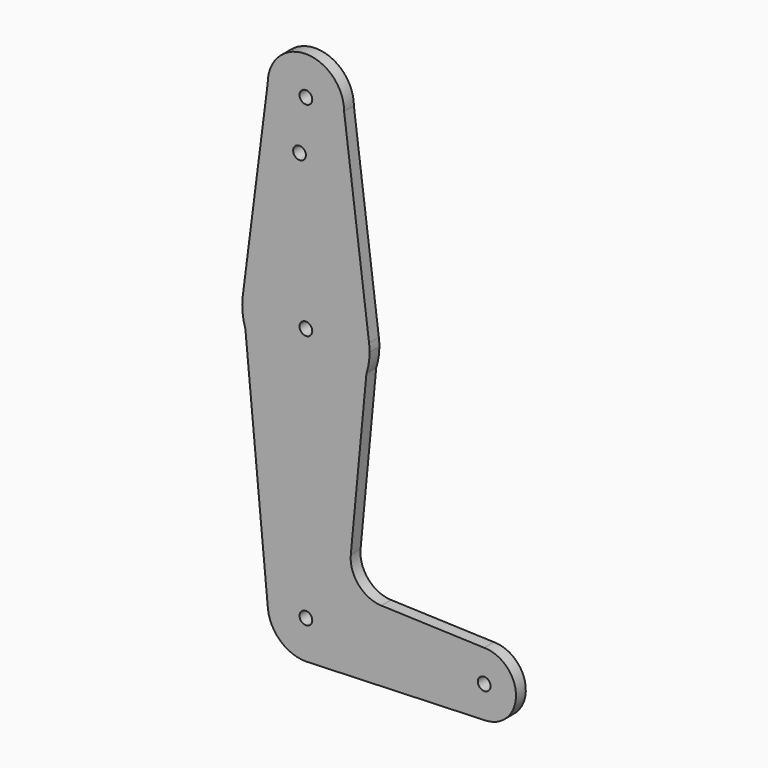
from build123d import *

# Parameters (mm, degrees)
F0_R     = 1.5875
F1_DEPTH = 3.048


with BuildPart() as f1:
    # F0 (on Front) → F1 (new body)
    with BuildSketch(Plane.XZ):
        with BuildLine():
            ThreePointArc((44.7324052746, -7.9324746146), (50.1616327839, -5.5119104847), (52.3875, 0))
            ThreePointArc((52.3875, 0), (50.0626600757, 5.6126600757), (44.45, 7.9375))
            ThreePointArc((44.45, 7.9375), (36.5137564458, -0.1412249921), (44.7324052746, -7.9324746146))
        make_face()
        with Locations((44.45, 0)):
            Circle(F0_R, mode=Mode.SUBTRACT)
        with BuildLine():
            ThreePointArc((44.7324052746, -7.9324746146), (36.5137564458, -0.1412249921), (44.45, 7.9375))
            Line((44.45, 7.9375), (18.8228170321, 8.8527565346))
            ThreePointArc((18.8228170321, 8.8527565346), (13.130598856, 11.5544736108), (11.1919966494, 17.549675393))
            Line((11.1919966494, 17.549675393), (15.0877196672, 58.5627598555))
            ThreePointArc((15.0877196672, 58.5627598555), (-0.0101583242, 47.6250032501), (-15.0940259351, 58.5820729906))
            Line((-15.0940259351, 58.5820729906), (-9.4828929283, -0.8946321652))
            ThreePointArc((-9.4828929283, -0.8946321652), (-0.4478112651, 9.5144674087), (9.525, 0))
            ThreePointArc((9.525, 0), (6.9705567315, -6.4912990883), (0.6773435479, -9.500885786))
            Line((0.6773435479, -9.500885786), (44.7324052746, -7.9324746146))
        make_face()
        with BuildLine():
            Line((0, -9.525), (0.6773435479, -9.500885786))
            ThreePointArc((0.6773435479, -9.500885786), (6.9705567315, -6.4912990883), (9.525, 0))
            ThreePointArc((9.525, 0), (-0.4478112651, 9.5144674087), (-9.4828929283, -0.8946321652))
            ThreePointArc((-9.4828929283, -0.8946321652), (-6.4110940418, -7.0443948063), (0, -9.525))
        make_face()
        Circle(F0_R, mode=Mode.SUBTRACT)
        with BuildLine():
            ThreePointArc((0, -9.525), (0.3388863295, -9.5189695375), (0.6773435479, -9.500885786))
            Line((0.6773435479, -9.500885786), (0, -9.525))
        make_face()
        with BuildLine():
            Line((15.7474569047, 65.5082893304), (15.0877196672, 58.5627598555))
            ThreePointArc((15.0877196672, 58.5627598555), (15.6769444522, 61.0001924791), (15.875, 63.5))
            ThreePointArc((15.875, 63.5), (15.8430821396, 64.5061676396), (15.7474569047, 65.5082893304))
        make_face()
        with BuildLine():
            ThreePointArc((-15.0940259351, 58.5820729906), (-0.0101583242, 47.6250032501), (15.0877196672, 58.5627598555))
            Line((15.0877196672, 58.5627598555), (15.7474569047, 65.5082893304))
            ThreePointArc((15.7474569047, 65.5082893304), (0, 79.375), (-15.7474569047, 65.5082893304))
            Line((-15.7474569047, 65.5082893304), (-15.0940259351, 58.5820729906))
        make_face()
        with Locations((0, 63.5)):
            Circle(F0_R, mode=Mode.SUBTRACT)
        with BuildLine():
            ThreePointArc((-15.7474569047, 65.5082893304), (-15.8048215471, 62.0089463914), (-15.0940259351, 58.5820729906))
            Line((-15.0940259351, 58.5820729906), (-15.7474569047, 65.5082893304))
        make_face()
        with BuildLine():
            ThreePointArc((-15.7474569047, 65.5082893304), (0, 79.375), (15.7474569047, 65.5082893304))
            Line((15.7474569047, 65.5082893304), (9.525, 114.3))
            ThreePointArc((9.525, 114.3), (0, 104.775), (-9.525, 114.3))
            Line((-9.525, 114.3), (-15.7474569047, 65.5082893304))
        make_face()
        with Locations((-1.5875, 101.5796237513)):
            Circle(F0_R, mode=Mode.SUBTRACT)
        with BuildLine():
            ThreePointArc((-9.525, 114.3), (0, 104.775), (9.525, 114.3))
            ThreePointArc((9.525, 114.3), (0, 123.825), (-9.525, 114.3))
        make_face()
        with Locations((0, 114.3)):
            Circle(F0_R, mode=Mode.SUBTRACT)
    extrude(amount=F1_DEPTH)


solid = f1.part
